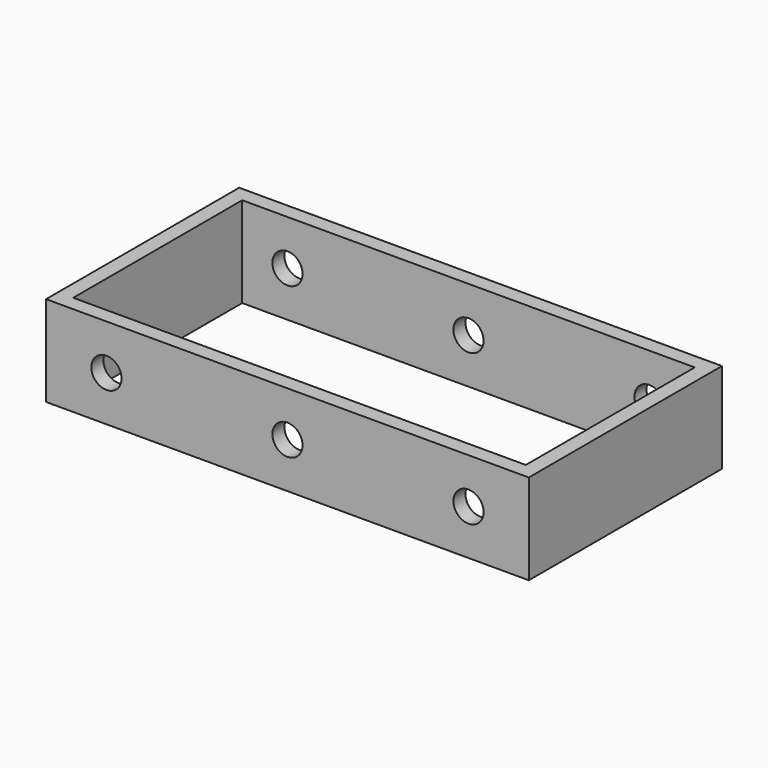
from build123d import *

# Parameters (mm, degrees)
F0_W     = 2032
F0_H     = 1016
F0_W_2   = 1905
F0_H_2   = 889
F1_DEPTH = 190.5
F2_R     = 63.5
F3_DEPTH = 1016.001


with BuildPart() as f1:
    # F0 (on Top) → F1 (new body, symmetric)
    with BuildSketch(Plane.XY):
        Rectangle(F0_W, F0_H)
        Rectangle(F0_W_2, F0_H_2, mode=Mode.SUBTRACT)
    extrude(amount=F1_DEPTH, both=True)

    # F2 (on face) → F3 (cut, through all)
    with BuildSketch(Plane.XZ.offset(508)):
        with BuildLine():
            ThreePointArc((825.5, 0), (762, 63.5), (698.5, 0))
            ThreePointArc((698.5, 0), (762, -63.5), (825.5, 0))
        make_face()
        with BuildLine():
            ThreePointArc((63.5, 0), (0, 63.5), (-63.5, 0))
            Line((-63.5, 0), (63.5, 0))
        make_face()
        with BuildLine():
            Line((63.5, 0), (-63.5, 0))
            ThreePointArc((-63.5, 0), (0, -63.5), (63.5, 0))
        make_face()
        with Locations((-762, 0)):
            Circle(F2_R)
    extrude(amount=-F3_DEPTH, mode=Mode.SUBTRACT)


solid = f1.part
